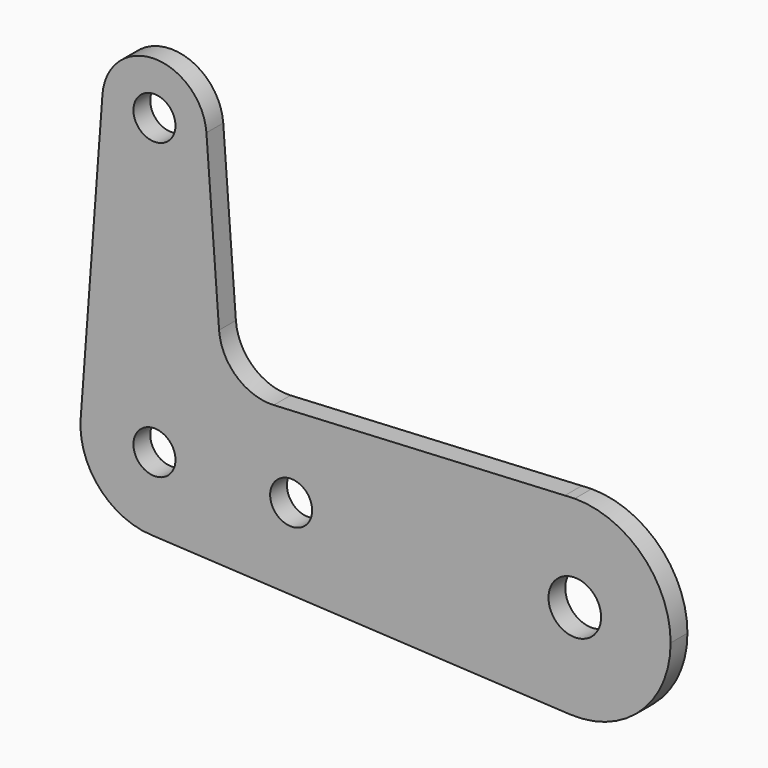
from build123d import *

# Parameters (mm, degrees)
F0_R     = 3.175
F0_R_2   = 3.9751
F1_DEPTH = 3.175


with BuildPart() as f1:
    # F0 (on Front) → F1 (new body)
    with BuildSketch(Plane.XZ):
        with BuildLine():
            ThreePointArc((-55.647756, 45.034926), (-63.5, 52.324), (-71.352244, 45.034926))
            ThreePointArc((-71.352244, 45.034926), (-63.792665, 36.581441), (-55.626, 44.45))
            ThreePointArc((-55.626, 44.45), (-55.631441, 44.742665), (-55.647756, 45.034926))
        make_face()
        with Locations((-63.5, 44.45)):
            Circle(F0_R, mode=Mode.SUBTRACT)
        with BuildLine():
            Line((-64.081152, -11.16088), (-0.752856, -14.458412))
            ThreePointArc((-0.752856, -14.458412), (-14.473217, -0.372137), (-1.494883, 14.400618))
            Line((-1.494883, 14.400618), (-45.479054, 12.123806))
            ThreePointArc((-45.479054, 12.123806), (-51.092065, 14.079839), (-53.738346, 19.402352))
            Line((-53.738346, 19.402352), (-55.647756, 45.034926))
            ThreePointArc((-55.647756, 45.034926), (-55.631441, 44.742665), (-55.626, 44.45))
            ThreePointArc((-55.626, 44.45), (-63.792665, 36.581441), (-71.352244, 45.034926))
            Line((-71.352244, 45.034926), (-74.645121, 0.830217))
            ThreePointArc((-74.645121, 0.830217), (-71.312679, 7.991559), (-64.077745, 11.161057))
            ThreePointArc((-64.077745, 11.161057), (-55.804349, 8.104315), (-52.324, 0))
            ThreePointArc((-52.324, 0), (-55.805586, -8.10549), (-64.081152, -11.16088))
        make_face()
        with Locations((-42.8498, 0)):
            Circle(F0_R, mode=Mode.SUBTRACT)
        with BuildLine():
            ThreePointArc((-74.645121, 0.830217), (-71.885879, -7.387828), (-64.081152, -11.16088))
            ThreePointArc((-64.081152, -11.16088), (-55.805586, -8.10549), (-52.324, 0))
            ThreePointArc((-52.324, 0), (-55.804349, 8.104315), (-64.077745, 11.161057))
            ThreePointArc((-64.077745, 11.161057), (-71.312679, 7.991559), (-74.645121, 0.830217))
        make_face()
        with Locations((-63.5, 0)):
            Circle(F0_R, mode=Mode.SUBTRACT)
        with BuildLine():
            ThreePointArc((-0.752856, -14.458412), (9.967764, -10.500294), (14.478, 0))
            ThreePointArc((14.478, 0), (10.237492, 10.237492), (0, 14.478))
            Line((0, 14.478), (-1.494883, 14.400618))
            ThreePointArc((-1.494883, 14.400618), (-14.473217, -0.372137), (-0.752856, -14.458412))
        make_face()
        Circle(F0_R_2, mode=Mode.SUBTRACT)
    extrude(amount=F1_DEPTH)


solid = f1.part
